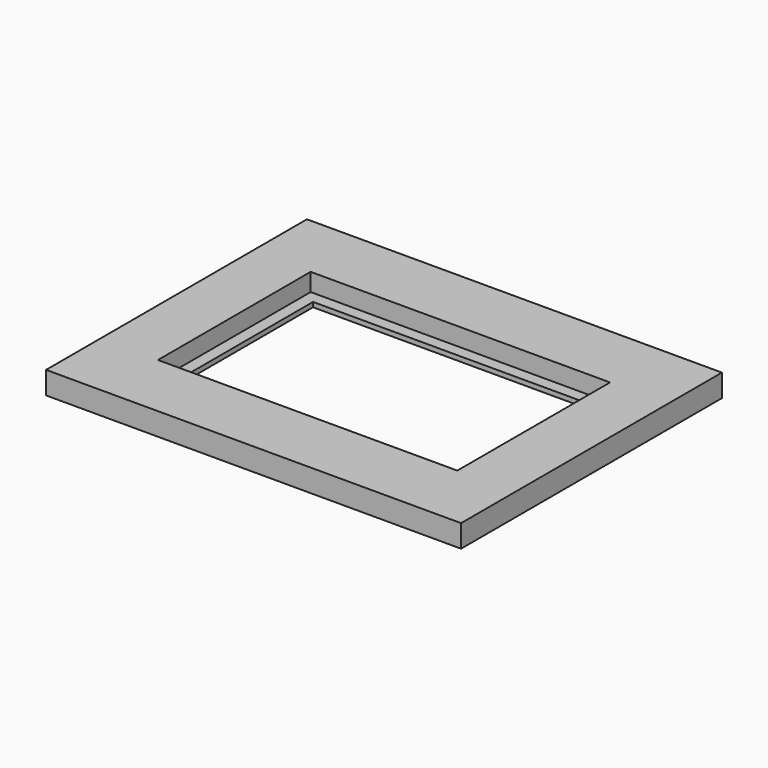
from build123d import *

# Parameters (mm, degrees)
SKETCH_W      = 70
SKETCH_H      = 55
SKETCH_W_2    = 46.5
SKETCH_H_2    = 28.2
PAD_DEPTH     = 0.8
SKETCH001_W   = 70
SKETCH001_H   = 55
SKETCH001_W_2 = 50.5
SKETCH001_H_2 = 32.2
PAD001_DEPTH  = 3


with BuildPart() as part:
    # Sketch → Pad (new body)
    with BuildSketch(Plane.XY):
        Rectangle(SKETCH_W, SKETCH_H)
        Rectangle(SKETCH_W_2, SKETCH_H_2, mode=Mode.SUBTRACT)
    extrude(amount=PAD_DEPTH)

    # Sketch001 (on DatumPlane) → Pad001 (join)
    with BuildSketch(Plane.XY.offset(0.8)):
        Rectangle(SKETCH001_W, SKETCH001_H)
        Rectangle(SKETCH001_W_2, SKETCH001_H_2, mode=Mode.SUBTRACT)
    extrude(amount=PAD001_DEPTH)


solid = part.part
